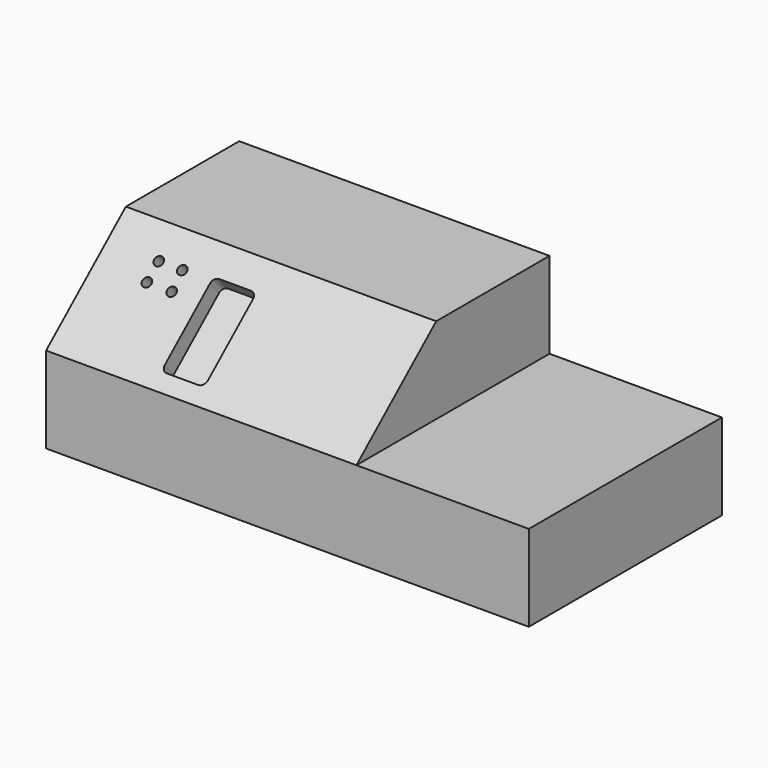
from build123d import *

# Parameters (mm, degrees)
F0_W     = 420
F0_H     = 210
F1_DEPTH = 150
F3_DEPTH = 420.001
F4_R     = 4
F5_DEPTH = 15
F7_DEPTH = 150


with BuildPart() as f1:
    # F0 (on Top) → F1 (new body)
    with BuildSketch(Plane.XY):
        with Locations((210, -105)):
            Rectangle(F0_W, F0_H)
    extrude(amount=F1_DEPTH)

    # F2 (on face) → F3 (cut, through all)
    with BuildSketch(Plane.YZ.offset(420)):
        Polygon((-210, 150), (-210, 75), (-123.2505664229, 150), align=None)
    extrude(amount=-F3_DEPTH, mode=Mode.SUBTRACT)

    # F4 (on face) → F5 (cut)
    with BuildSketch(Plane(origin=(0, -126.9320637805, 146.8171284764), x_dir=(1, 0, 0), z_dir=(0, -0.6540195362, 0.7564776575))):
        with Locations((45.6720627844, -23.2154857367)):
            Circle(F4_R)
        with Locations((66.2421623061, -23.3697257936)):
            Circle(F4_R)
        with Locations((67.1772722169, -40.1790748625)):
            Circle(F4_R)
        with Locations((45.5067284684, -40.0792160809)):
            Circle(F4_R)
        with BuildLine():
            Line((123.8630712032, -20.2180277556), (96.6224558651, -20.2180277556))
            ThreePointArc((96.6224558651, -20.2180277556), (93.0059849426, -21.7160190597), (91.5079936385, -25.3324899822))
            Line((91.5079936385, -25.3324899822), (91.5079936385, -90.4371738434))
            ThreePointArc((91.5079936385, -90.4371738434), (92.9668696589, -93.9592121177), (96.4889079332, -95.4180881381))
            Line((96.4889079332, -95.4180881381), (123.4852224588, -95.4180881381))
            ThreePointArc((123.4852224588, -95.4180881381), (127.2878428404, -93.8429912035), (128.862939775, -90.040370822))
            Line((128.862939775, -90.040370822), (128.862939775, -25.2178963274))
            ThreePointArc((128.862939775, -25.2178963274), (127.3985121754, -21.6824553552), (123.8630712032, -20.2180277556))
        make_face()
    extrude(amount=-F5_DEPTH, mode=Mode.SUBTRACT)

    # F6 (on face) → F7 (cut)
    with BuildSketch(Plane.YZ.offset(420)):
        Polygon((-206.3629985005, 78.1444022308), (-210, 75), (0, 75), (0, 150), (-123.2505664229, 150), align=None)
    extrude(amount=-F7_DEPTH, mode=Mode.SUBTRACT)


solid = f1.part
